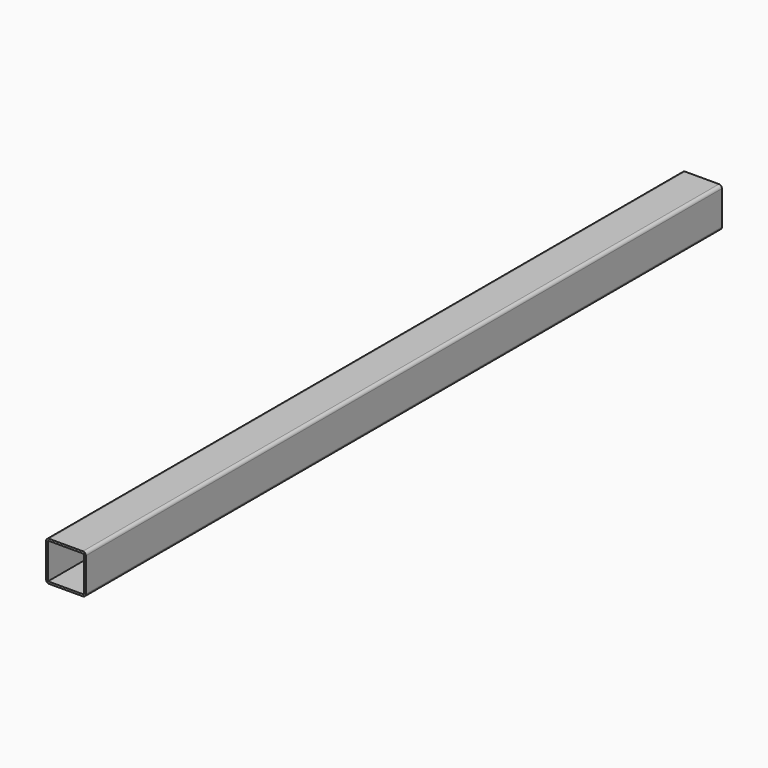
from build123d import *

# Parameters (mm, degrees)
F0_W     = 36
F0_H     = 36
F1_DEPTH = 400


with BuildPart() as f1:
    # F0 (on Front) → F1 (new body, symmetric)
    with BuildSketch(Plane.XZ):
        with BuildLine():
            ThreePointArc((20, 17), (19.12132, 19.12132), (17, 20))
            Line((17, 20), (-17, 20))
            ThreePointArc((-17, 20), (-19.12132, 19.12132), (-20, 17))
            Line((-20, 17), (-20, -17))
            ThreePointArc((-20, -17), (-19.12132, -19.12132), (-17, -20))
            Line((-17, -20), (17, -20))
            ThreePointArc((17, -20), (19.12132, -19.12132), (20, -17))
            Line((20, -17), (20, 17))
        make_face()
        Rectangle(F0_W, F0_H, mode=Mode.SUBTRACT)
    extrude(amount=F1_DEPTH, both=True)


solid = f1.part
